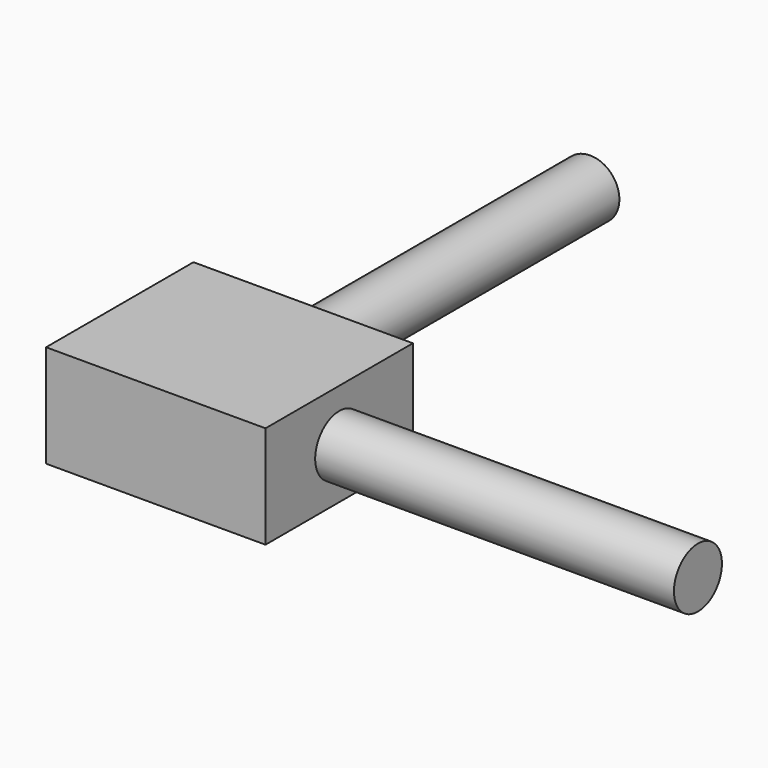
from build123d import *

# Parameters (mm, degrees)
F0_W     = 108.7436452508
F0_H     = 91.3013890386
F1_DEPTH = 50.8
F2_R     = 25.409051706
F3_DEPTH = 62.484
F4_T     = -2.54
F5_R     = 14.8578389164
F6_DEPTH = 177.8
F7_R     = 14.4786681192
F8_DEPTH = 177.8


with BuildPart() as f1:
    # F0 (on Top) → F1 (new body)
    with BuildSketch(Plane.XY):
        Rectangle(F0_W, F0_H)
    extrude(amount=F1_DEPTH)

    # F2 (on face) → F3 (join)
    with BuildSketch(Plane.XY.offset(50.8)):
        Circle(F2_R)
    extrude(amount=-F3_DEPTH)

    # F4
    f4_openings = [f1.faces().sort_by_distance(p)[0] for p in [
        (0, 0, -11.684),
    ]]
    offset(amount=F4_T, openings=f4_openings, kind=Kind.INTERSECTION)

    # F5 (on face) → F6 (join)
    with BuildSketch(Plane.YZ.offset(54.3718226254)):
        with Locations((0, 24.9464344233)):
            Circle(F5_R)
    extrude(amount=F6_DEPTH)

    # F7 (on face) → F8 (join)
    with BuildSketch(Plane(origin=(0, 45.6506945193, 0), x_dir=(-1, 0, 0), z_dir=(0, 1, 0))):
        with Locations((0, 28.3211600035)):
            Circle(F7_R)
    extrude(amount=F8_DEPTH)


solid = f1.part
